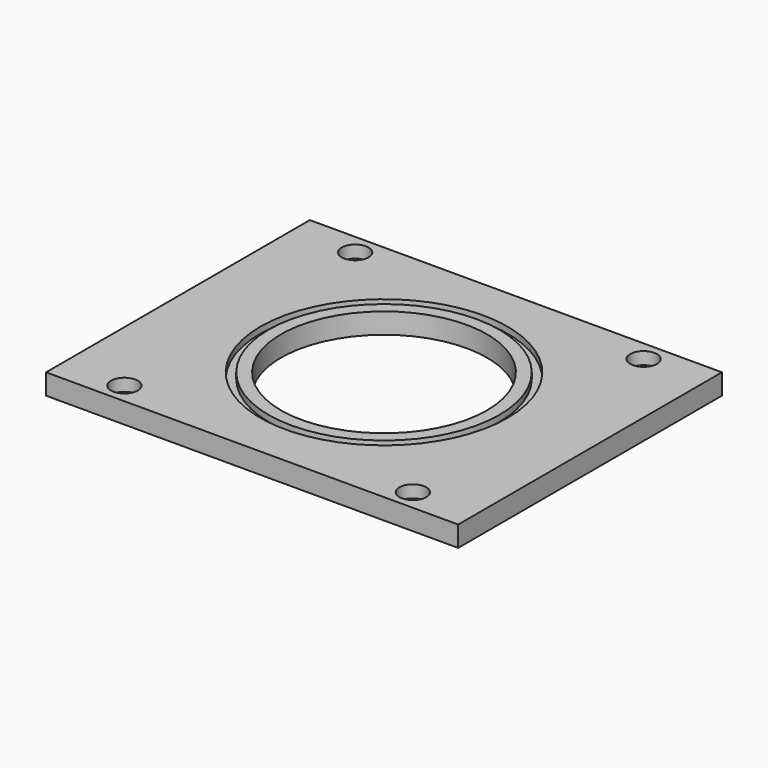
from build123d import *

# Parameters (mm, degrees)
F0_W           = 100
F0_H           = 80
F1_DEPTH       = 2.5
F2_R           = 25
F3_DEPTH       = 5
F4_R           = 30
F4_R_2         = 28
F5_DEPTH       = 1.5
F7_D           = 3.3
F7_CBORE_D     = 6.5
F7_CBORE_DEPTH = 3


with BuildPart() as f1:
    # F0 (on Top) → F1 (new body, symmetric)
    with BuildSketch(Plane.XY):
        Rectangle(F0_W, F0_H)
    extrude(amount=F1_DEPTH, both=True)

    # F2 (on face) → F3 (cut, through all)
    with BuildSketch(Plane.XY.offset(2.5)):
        Circle(F2_R)
    extrude(amount=-F3_DEPTH, mode=Mode.SUBTRACT)

    # F4 (on face) → F5 (cut)
    with BuildSketch(Plane.XY.offset(2.5)):
        Circle(F4_R)
        Circle(F4_R_2, mode=Mode.SUBTRACT)
    extrude(amount=-F5_DEPTH, mode=Mode.SUBTRACT)

    # F7 (through all)
    with Locations(Plane.XY.offset(2.5)):
        with Locations((-35, 35), (35, 35), (35, -35), (-35, -35)):
            CounterBoreHole(F7_D / 2, F7_CBORE_D / 2, F7_CBORE_DEPTH)


solid = f1.part
